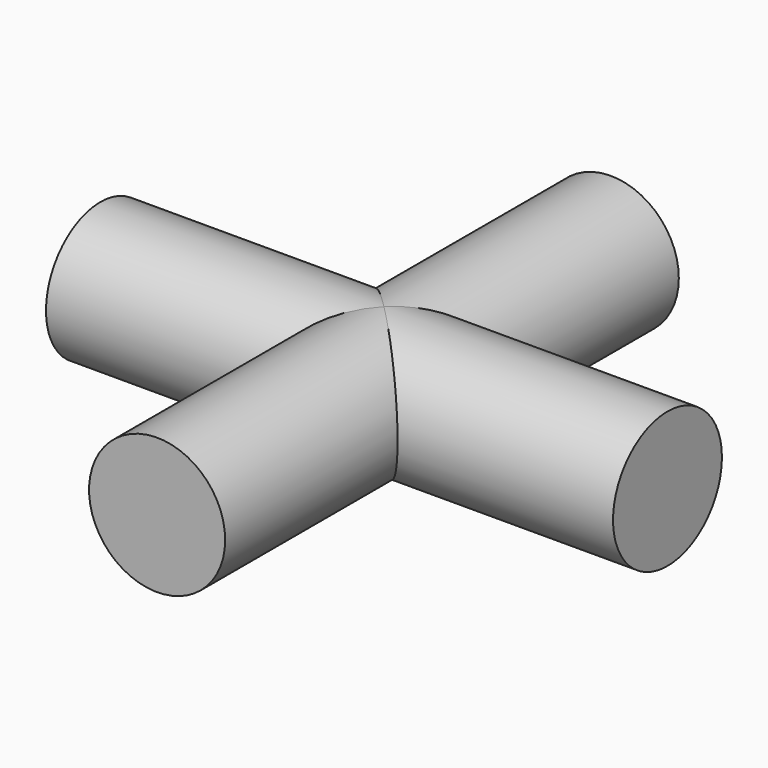
from build123d import *

# Parameters (mm, degrees)
F0_R          = 3
F1_DEPTH      = 12.5
F1_DEPTH_BACK = 12.5
F2_R          = 3
F3_DEPTH      = 12.5
F3_DEPTH_BACK = 12.5


with BuildPart() as f1:
    # F0 (on Right) → F1 (new body, two sides)
    with BuildSketch(Plane.YZ) as f1_sk:
        Circle(F0_R)
    extrude(amount=F1_DEPTH)
    extrude(f1_sk.sketch, amount=-F1_DEPTH_BACK)

    # F2 (on Front) → F3 (join, two sides)
    with BuildSketch(Plane.XZ) as f3_sk:
        Circle(F2_R)
    extrude(amount=F3_DEPTH)
    extrude(f3_sk.sketch, amount=-F3_DEPTH_BACK)


solid = f1.part
